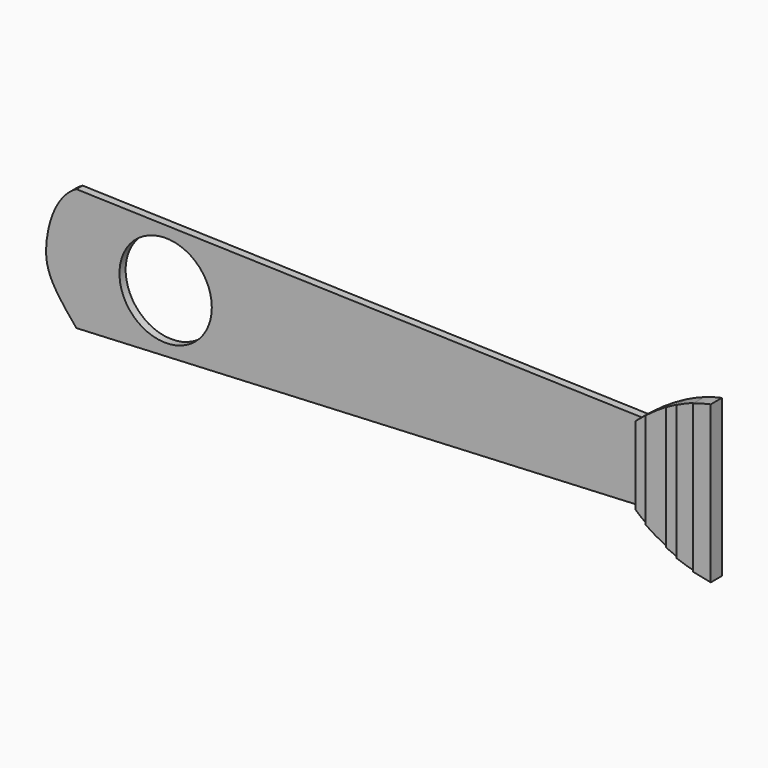
from build123d import *

# Parameters (mm, degrees)
F0_R     = 7.5526113457
F1_DEPTH = 1.27
F2_DEPTH = 1.27
F3_DEPTH = 1.524
F5_DEPTH = 1.778
F4_DEPTH = 2.032
F6_DEPTH = 2.286


with BuildPart() as f1:
    # F0 (on Front) → F1 (new body)
    with BuildSketch(Plane.XZ):
        with BuildLine():
            Line((28.6921095103, 18.8548155129), (-63.7784600258, 21.6420497745))
            add(Edge.make_bspline(
                [(-63.7784600258, 21.6420497745), (-67.1079200773, 19.793095453), (-69.8225721368, 10.7812830644), (-68.075440342, 6.652690484), (-63.7784600258, 1.6395491548)],
                knots=[0, 0, 0, 0, 0.4900994273, 1, 1, 1, 1], degree=3))
            Line((-63.7784600258, 1.6395491548), (28.6921095103, 6.0663321055))
            Line((28.6921095103, 6.0663321055), (28.6921095103, 18.8548155129))
        make_face()
        with Locations((-49.186475575, 11.8047548458)):
            Circle(F0_R, mode=Mode.SUBTRACT)
    extrude(amount=-F1_DEPTH)

    # F0 (on Front) → F2 (join)
    with BuildSketch(Plane.XZ):
        with BuildLine():
            add(Edge.make_bspline(
                [(28.6921095103, 18.8548155129), (29.2586134161, 19.3464303872), (29.8532963087, 19.8345850052), (30.4717893599, 20.3119263251)],
                knots=[0, 0, 0, 0, 0.063445116, 0.063445116, 0.063445116, 0.063445116], degree=3))
            Line((28.6921095103, 18.8548155129), (28.6921095103, 6.0663321055))
            add(Edge.make_bspline(
                [(28.6921095103, 6.0663321055), (29.2374306887, 5.5684302801), (29.8335393262, 5.0945577706), (30.4717893599, 4.6471812289)],
                knots=[0, 0, 0, 0, 0.0689819558, 0.0689819558, 0.0689819558, 0.0689819558], degree=3))
            Line((30.4717893599, 4.6471812289), (30.4717893599, 20.3119263251))
        make_face()
    extrude(amount=F2_DEPTH)


with BuildPart() as f3:
    # F0 (on Front) → F3 (new body)
    with BuildSketch(Plane.XZ):
        with BuildLine():
            add(Edge.make_bspline(
                [(30.4717893599, 20.3119263251), (31.6090095116, 21.1896114782), (32.8267270412, 22.0307390364), (34.0977841778, 22.7896005813)],
                knots=[0.063445116, 0.063445116, 0.063445116, 0.063445116, 0.1801013408, 0.1801013408, 0.1801013408, 0.1801013408], degree=3))
            Line((30.4717893599, 20.3119263251), (30.4717893599, 4.6471812289))
            add(Edge.make_bspline(
                [(30.4717893599, 4.6471812289), (31.5703112732, 3.8771805888), (32.7936705756, 3.1856701684), (34.0977841778, 2.5852265171)],
                knots=[0.0689819558, 0.0689819558, 0.0689819558, 0.0689819558, 0.1877100185, 0.1877100185, 0.1877100185, 0.1877100185], degree=3))
            Line((34.0977841778, 2.5852265171), (34.0977841778, 22.7896005813))
        make_face()
    extrude(amount=F3_DEPTH)


with BuildPart() as f5:
    # F0 (on Front) → F5 (new body)
    with BuildSketch(Plane.XZ):
        with BuildLine():
            add(Edge.make_bspline(
                [(34.0977841778, 22.7896005813), (34.7096884179, 23.1549268783), (35.3339545969, 23.5011872789), (35.9675526682, 23.823282004)],
                knots=[0.1801013408, 0.1801013408, 0.1801013408, 0.1801013408, 0.2362612384, 0.2362612384, 0.2362612384, 0.2362612384], degree=3))
            Line((34.0977841778, 22.7896005813), (34.0977841778, 2.5852265171))
            add(Edge.make_bspline(
                [(34.0977841778, 2.5852265171), (34.7050155047, 2.3056433623), (35.329755098, 2.0458043109), (35.9675526682, 1.8069789945)],
                knots=[0.1877100185, 0.1877100185, 0.1877100185, 0.1877100185, 0.2429930851, 0.2429930851, 0.2429930851, 0.2429930851], degree=3))
            Line((35.9675526682, 1.8069789945), (35.9675526682, 23.823282004))
        make_face()
    extrude(amount=F5_DEPTH)


with BuildPart() as f4:
    # F0 (on Front) → F4 (new body)
    with BuildSketch(Plane.XZ):
        with BuildLine():
            add(Edge.make_bspline(
                [(35.9675526682, 23.823282004), (36.9272706816, 24.3111624501), (37.9083993188, 24.7435983877), (38.9004083297, 25.1028666727)],
                knots=[0.2362612384, 0.2362612384, 0.2362612384, 0.2362612384, 0.321327257, 0.321327257, 0.321327257, 0.321327257], degree=3))
            Line((35.9675526682, 23.823282004), (35.9675526682, 1.8069789945))
            add(Edge.make_bspline(
                [(35.9675526682, 1.8069789945), (36.9209481001, 1.4499770611), (37.903521585, 1.1399303244), (38.9004083297, 0.88107959)],
                knots=[0.2429930851, 0.2429930851, 0.2429930851, 0.2429930851, 0.3256315672, 0.3256315672, 0.3256315672, 0.3256315672], degree=3))
            Line((38.9004083297, 0.88107959), (38.9004083297, 25.1028666727))
        make_face()
    extrude(amount=F4_DEPTH)


with BuildPart() as f6:
    # F0 (on Front) → F6 (new body)
    with BuildSketch(Plane.XZ):
        with BuildLine():
            add(Edge.make_bspline(
                [(38.9004083297, 25.1028666727), (39.8571112277, 25.4493484141), (40.8239338052, 25.7277779717), (41.7914306023, 25.9222579794)],
                knots=[0.321327257, 0.321327257, 0.321327257, 0.321327257, 0.4033657321, 0.4033657321, 0.4033657321, 0.4033657321], degree=3))
            Line((38.9004083297, 25.1028666727), (38.9004083297, 0.88107959))
            add(Edge.make_bspline(
                [(38.9004083297, 0.88107959), (39.8553043694, 0.633132125), (40.8233332625, 0.4321585571), (41.7914306023, 0.2818860558)],
                knots=[0.3256315672, 0.3256315672, 0.3256315672, 0.3256315672, 0.4047891644, 0.4047891644, 0.4047891644, 0.4047891644], degree=3))
            Line((41.7914306023, 0.2818860558), (41.7914306023, 25.9222579794))
        make_face()
    extrude(amount=F6_DEPTH)


solid = Compound([f1.part, f3.part, f5.part, f4.part, f6.part])
